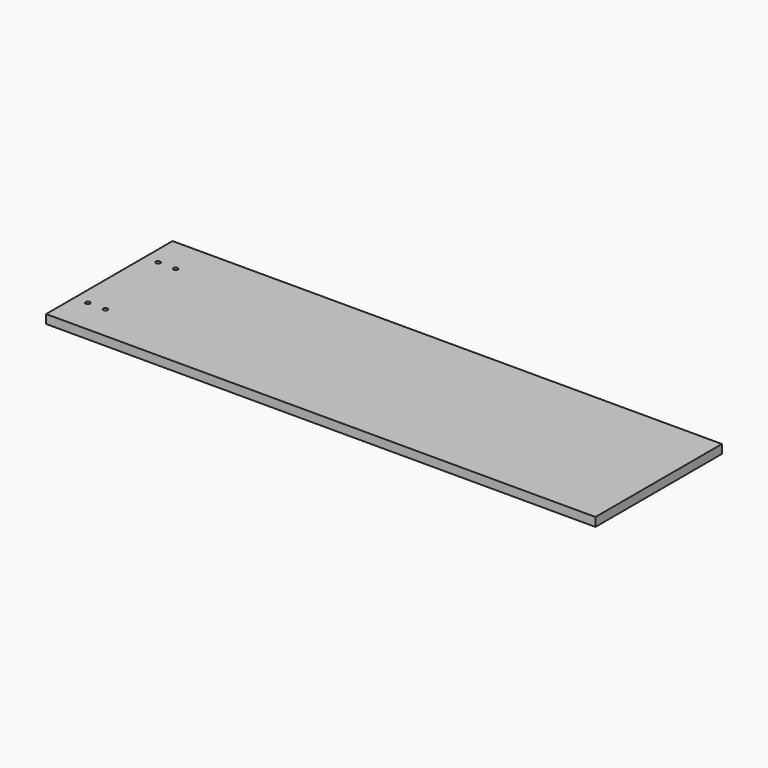
from build123d import *

# Parameters (mm, degrees)
F0_W     = 620
F0_H     = 180
F1_DEPTH = 10
F3_D     = 5
F3_DEPTH = 11
F3_TIP   = 1.5021515476
F4_DEPTH = 5.64


with BuildPart() as f1:
    # F0 (on Top) → F1 (new body)
    with BuildSketch(Plane.XY):
        with Locations((310, -90)):
            Rectangle(F0_W, F0_H)
    extrude(amount=F1_DEPTH)

    # F3
    with Locations(Plane.XY.offset(10)):
        with Locations((10, -40), (30, -40), (10, -140), (30, -140)):
            Hole(F3_D / 2, depth=F3_DEPTH)
            with Locations((0, 0, -(F3_DEPTH + F3_TIP / 2))):  # 118° drill point
                Cone(0, F3_D / 2, F3_TIP, mode=Mode.SUBTRACT)

    # F4 (add): a face of the model
    f4_faces = [f1.faces().sort_by_distance(p)[0] for p in [
        (0, -90, 5),
    ]]
    extrude(f4_faces, amount=F4_DEPTH)


solid = f1.part
